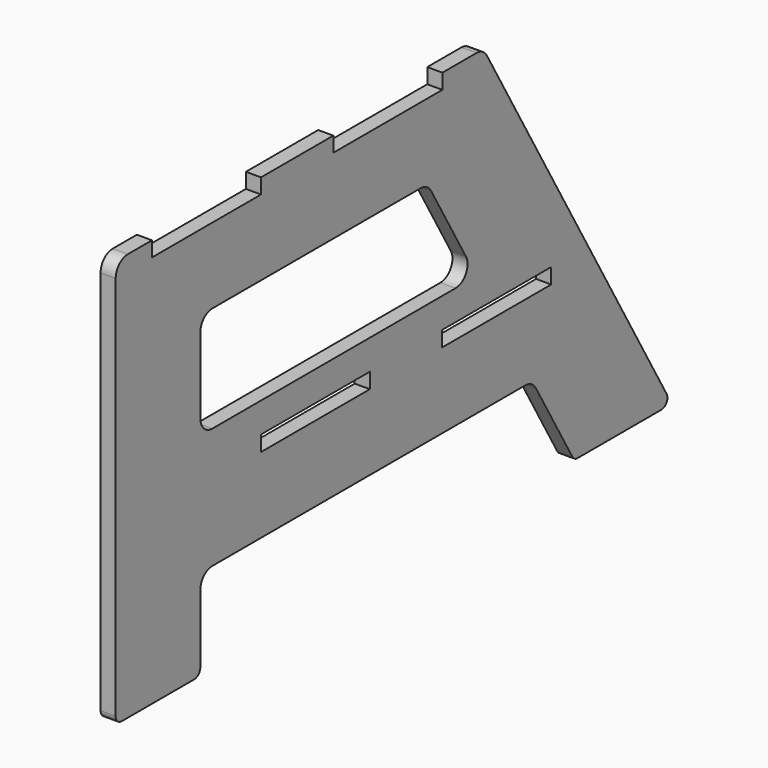
from build123d import *

# Parameters (mm, degrees)
F0_W     = 114.554
F0_H     = 12.954
F1_DEPTH = 12.7


with BuildPart() as f1:
    # F0 (on Right) → F1 (new body)
    with BuildSketch(Plane.YZ):
        with BuildLine():
            ThreePointArc((0, 6.35), (1.859872, 1.859872), (6.35, 0))
            Line((6.35, 0), (82.55, 0))
            ThreePointArc((82.55, 0), (87.040128, 1.859872), (88.9, 6.35))
            Line((88.9, 6.35), (88.9, 63.5))
            ThreePointArc((88.9, 63.5), (92.619744, 72.480256), (101.6, 76.2))
            Line((101.6, 76.2), (430.220683, 76.2))
            ThreePointArc((430.220683, 76.2), (436.570683, 74.498523), (441.219206, 69.85))
            Line((441.219206, 69.85), (479.714035, 3.175))
            ThreePointArc((479.714035, 3.175), (482.038296, 0.850739), (485.213296, 0))
            Line((485.213296, 0), (573.201477, 0))
            ThreePointArc((573.201477, 0), (578.700739, 3.175), (578.700739, 9.525))
            Line((578.700739, 9.525), (389.892767, 336.55))
            ThreePointArc((389.892767, 336.55), (385.244244, 341.198523), (378.894244, 342.9))
            Line((378.894244, 342.9), (343.154, 342.9))
            Line((343.154, 342.9), (343.154, 330.2))
            Line((343.154, 330.2), (228.6, 330.2))
            Line((228.6, 330.2), (228.6, 342.9))
            Line((228.6, 342.9), (152.654, 342.9))
            Line((152.654, 342.9), (152.654, 330.2))
            Line((152.654, 330.2), (38.1, 330.2))
            Line((38.1, 330.2), (38.1, 342.9))
            Line((38.1, 342.9), (12.7, 342.9))
            ThreePointArc((12.7, 342.9), (3.719744, 339.180256), (0, 330.2))
            Line((0, 330.2), (0, 6.35))
        make_face()
        with Locations((209.677, 146.177)):
            Rectangle(F0_W, F0_H, mode=Mode.SUBTRACT)
        with Locations((400.177, 146.177)):
            Rectangle(F0_W, F0_H, mode=Mode.SUBTRACT)
        with BuildLine():
            Line((88.9, 190.5), (88.9, 254))
            ThreePointArc((88.9, 254), (92.619744, 262.980256), (101.6, 266.7))
            Line((101.6, 266.7), (320.235457, 266.7))
            ThreePointArc((320.235457, 266.7), (326.585457, 264.998523), (331.23398, 260.35))
            Line((331.23398, 260.35), (367.895722, 196.85))
            ThreePointArc((367.895722, 196.85), (367.895722, 184.15), (356.897199, 177.8))
            Line((356.897199, 177.8), (101.6, 177.8))
            ThreePointArc((101.6, 177.8), (92.619744, 181.519744), (88.9, 190.5))
        make_face(mode=Mode.SUBTRACT)
    extrude(amount=F1_DEPTH)


solid = f1.part
